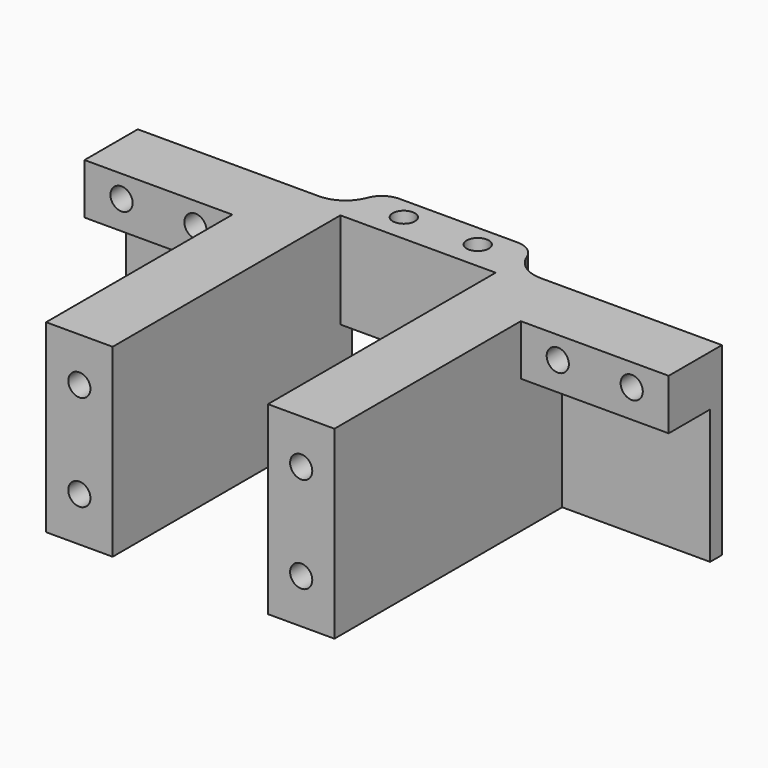
from build123d import *

# Parameters (mm, degrees)
SKETCH_W        = 79
SKETCH_H        = 25
PAD_DEPTH       = 2
SKETCH001_W     = 21
SKETCH001_H     = 25
PAD001_DEPTH    = 4.85
SKETCH002_R     = 1.5
POCKET_DEPTH    = 25.001
SKETCH003_W     = 21
SKETCH003_H     = 12
POCKET001_DEPTH = 10
PAD002_DEPTH    = 6.85
SKETCH005_W     = 9
SKETCH005_H     = 38.5
PAD003_DEPTH    = 18.15
SKETCH006_R     = 1.5
POCKET002_DEPTH = 10
SKETCH007_R     = 1.5
POCKET003_DEPTH = 22
FILLET_R        = 4.5
FILLET001_R     = 3


with BuildPart() as part:
    # Sketch → Pad (new body)
    with BuildSketch(Plane.XZ):
        Rectangle(SKETCH_W, SKETCH_H)
    extrude(amount=PAD_DEPTH)

    # Sketch001 (on Face5 of Pad) → Pad001 (join)
    with BuildSketch(Plane(origin=(0, 0, 0), x_dir=(1, 0, 0), z_dir=(0, 1, 0))):
        Rectangle(SKETCH001_W, SKETCH001_H)
    extrude(amount=PAD001_DEPTH)

    # Sketch002 (on Face5 of Pad001) → Pocket (cut, through all)
    with BuildSketch(Plane(origin=(0, 0, 12.5), x_dir=(-1, 0, 0), z_dir=(0, 0, 1))):
        with Locations((-5, -1.85)):
            Circle(SKETCH002_R)
        with Locations((5, -1.85)):
            Circle(SKETCH002_R)
    extrude(amount=-POCKET_DEPTH, mode=Mode.SUBTRACT)

    # Sketch003 (on Face11 of Pocket) → Pocket001 (cut)
    with BuildSketch(Plane(origin=(0, 4.85, 0), x_dir=(1, 0, 0), z_dir=(0, 1, 0))):
        with Locations((0, 6.5)):
            Rectangle(SKETCH003_W, SKETCH003_H)
    extrude(amount=-POCKET001_DEPTH, mode=Mode.SUBTRACT)

    # Sketch004 (on DatumPlane) → Pad002 (join)
    with BuildSketch(Plane(origin=(0, -2, 12.5), x_dir=(1, 0, 0), z_dir=(0, 0, -1))):
        Polygon((39.5, 0), (39.5, 7), (19.5, 7), (19.5, 38.5), (10.5, 38.5), (10.5, 0), align=None)
        Polygon((-19.5, 38.5), (-19.5, 7), (-39.5, 7), (-39.5, 0), (-10.5, 0), (-10.5, 38.5), align=None)
    extrude(amount=PAD002_DEPTH)

    # Sketch005 (on Face26 of Pad002) → Pad003 (join)
    with BuildSketch(Plane(origin=(0, 0, 5.65), x_dir=(1, 0, 0), z_dir=(0, 0, -1))):
        with Locations((-15, 21.25)):
            Rectangle(SKETCH005_W, SKETCH005_H)
        with Locations((15, 21.25)):
            Rectangle(SKETCH005_W, SKETCH005_H)
    extrude(amount=PAD003_DEPTH)

    # Sketch006 (on Face4 of Pad003) → Pocket002 (cut)
    with BuildSketch(Plane(origin=(0, 0, 0), x_dir=(1, 0, 0), z_dir=(0, 1, 0))):
        with Locations((24.5, -9.5)):
            Circle(SKETCH006_R)
        with Locations((34.5, -9.5)):
            Circle(SKETCH006_R)
        with Locations((-34.5, -9.5)):
            Circle(SKETCH006_R)
        with Locations((-24.5, -9.5)):
            Circle(SKETCH006_R)
    extrude(amount=-POCKET002_DEPTH, mode=Mode.SUBTRACT)

    # Sketch007 (on Face44 of Pocket002) → Pocket003 (cut)
    with BuildSketch(Plane.XZ.offset(40.5)):
        with Locations((15, -6.5)):
            Circle(SKETCH007_R)
        with Locations((15, 6.5)):
            Circle(SKETCH007_R)
        with Locations((-15, -6.5)):
            Circle(SKETCH007_R)
        with Locations((-15, 6.5)):
            Circle(SKETCH007_R)
    extrude(amount=-POCKET003_DEPTH, mode=Mode.SUBTRACT)

    # Fillet
    fillet_edges = [part.edges().sort_by_distance(p)[0] for p in [
        (-10.5, 0, 6),
        (10.5, 0, 6),
    ]]
    fillet(fillet_edges, radius=FILLET_R)

    # Fillet001
    fillet001_edges = [part.edges().sort_by_distance(p)[0] for p in [
        (10.5, 4.85, 6),
        (-10.5, 4.85, 6),
    ]]
    fillet(fillet001_edges, radius=FILLET001_R)


solid = part.part
